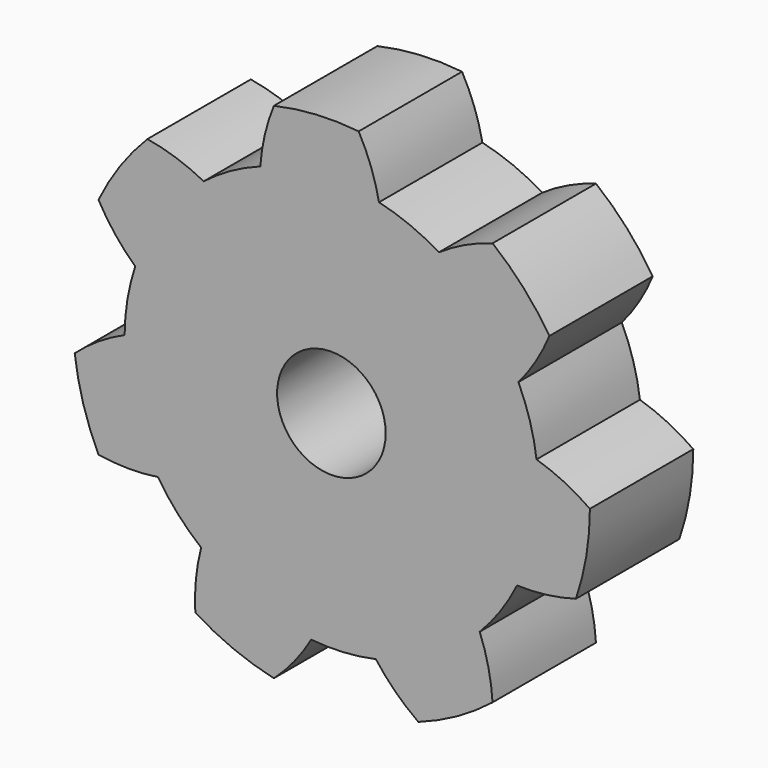
from build123d import *

# Parameters (mm, degrees)
F1_DEPTH = 9.525
F2_COUNT = 7
F3_R     = 15.24
F4_DEPTH = 9.525
F5_R     = 4
F6_DEPTH = 9.526


with BuildPart() as f1:
    # F0 (on Front) → F1 (new body)
    with BuildSketch(Plane.XZ):
        with BuildLine():
            ThreePointArc((-5.2396074411, 14.3109787878), (-0.9038291333, 15.2131749776), (3.5082727862, 14.8306986369))
            ThreePointArc((3.5082727862, 14.8306986369), (2.9205603088, 16.9463674955), (2.0085985954, 18.9438124907))
            ThreePointArc((2.0085985954, 18.9438124907), (-1.1297864166, 19.0164687219), (-4.2374916987, 18.5727263509))
            ThreePointArc((-4.2374916987, 18.5727263509), (-4.9065328108, 16.4813524805), (-5.2396074411, 14.3109787878))
        make_face()
    extrude(amount=F1_DEPTH)


with BuildPart() as f2_1:
    # F2: instance of F1
    add(f1.part.rotate(Axis((0, 0, 0), (0, -1, 0)), 1 * 360 / F2_COUNT))


with BuildPart() as f2_2:
    # F2: instance of F1
    add(f1.part.rotate(Axis((0, 0, 0), (0, -1, 0)), 2 * 360 / F2_COUNT))


with BuildPart() as f2_3:
    # F2: instance of F1
    add(f1.part.rotate(Axis((0, 0, 0), (0, -1, 0)), 3 * 360 / F2_COUNT))


with BuildPart() as f2_4:
    # F2: instance of F1
    add(f1.part.rotate(Axis((0, 0, 0), (0, -1, 0)), 4 * 360 / F2_COUNT))


with BuildPart() as f2_5:
    # F2: instance of F1
    add(f1.part.rotate(Axis((0, 0, 0), (0, -1, 0)), 5 * 360 / F2_COUNT))


with BuildPart() as f2_6:
    # F2: instance of F1
    add(f1.part.rotate(Axis((0, 0, 0), (0, -1, 0)), 6 * 360 / F2_COUNT))


with BuildPart() as f1_1:
    add(f1.part)

    add(f2_1.part)  # F4 merges F2_1

    add(f2_2.part)  # F4 merges F2_2

    add(f2_3.part)  # F4 merges F2_3

    add(f2_4.part)  # F4 merges F2_4

    add(f2_5.part)  # F4 merges F2_5

    add(f2_6.part)  # F4 merges F2_6
    # F3 (on Front) → F4 (join, through all)
    with BuildSketch(Plane.XZ):
        Circle(F3_R)
    extrude(amount=F4_DEPTH)

    # F5 (on face) → F6 (cut, through all)
    with BuildSketch(Plane.XZ.offset(9.525)):
        Circle(F5_R)
    extrude(amount=-F6_DEPTH, mode=Mode.SUBTRACT)


solid = f1_1.part
